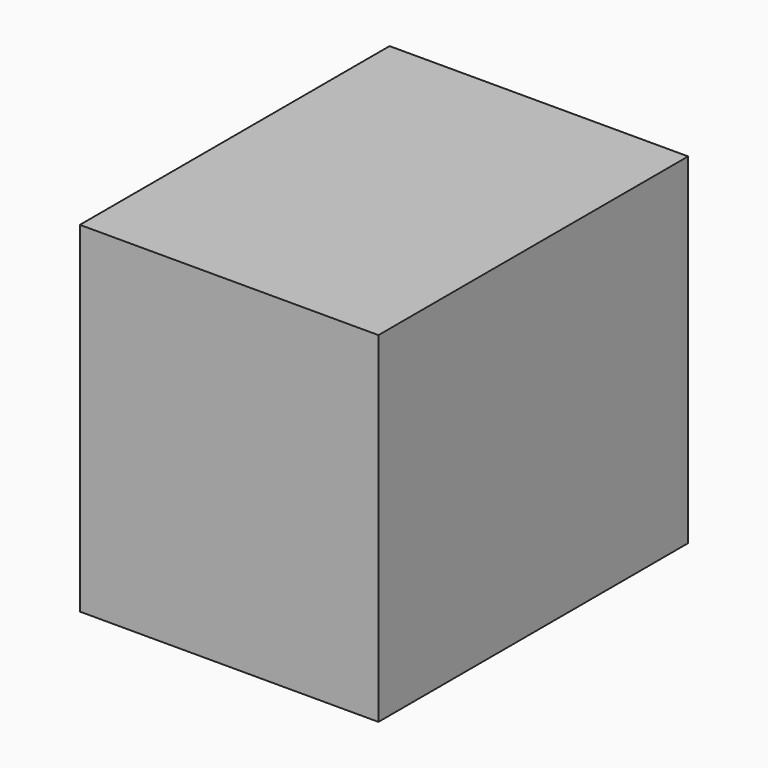
from build123d import *

# Parameters (mm, degrees)
F0_W     = 67.9279565811
F0_H     = 88.0647003651
F1_DEPTH = 45.212
F2_DEPTH = 32.258
F3_DEPTH = 25.4


with BuildPart() as f1:
    # F0 (on Top) → F1 (new body)
    with BuildSketch(Plane.XY):
        Rectangle(F0_W, F0_H)
    extrude(amount=F1_DEPTH)

    # F2 (add): a face of the model
    f2_faces = [f1.faces().sort_by_distance(p)[0] for p in [
        (0, 0, 45.212),
    ]]
    extrude(f2_faces, amount=F2_DEPTH)

    # F0 (on Top) → F3 (join)
    with BuildSketch(Plane.XY):
        Rectangle(F0_W, F0_H)
    extrude(amount=F3_DEPTH)


solid = f1.part
